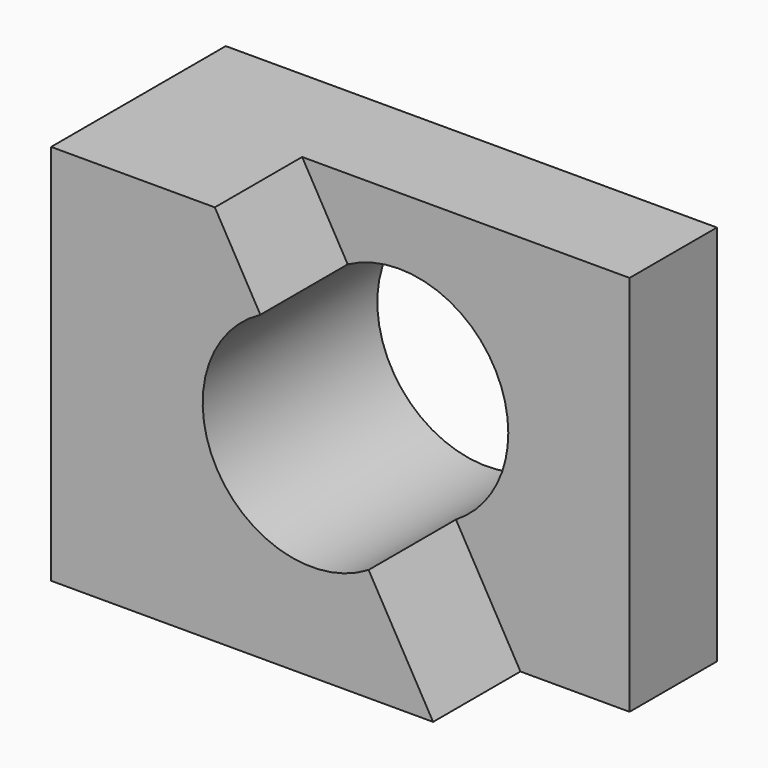
from build123d import *

# Parameters (mm, degrees)
F0_W     = 57.15
F0_H     = 44.45
F1_DEPTH = 25.4
F3_R     = 12.7
F4_DEPTH = 25.401
F5_DEPTH = 12.7


with BuildPart() as f1:
    # F0 (on Front) → F1 (new body)
    with BuildSketch(Plane.XZ):
        with Locations((-28.575, 22.225)):
            Rectangle(F0_W, F0_H)
    extrude(amount=F1_DEPTH)

    # F3 (on face) → F4 (cut, through all)
    with BuildSketch(Plane.XZ.offset(25.4)):
        with Locations((-26.811862, 23.974629)):
            Circle(F3_R)
    extrude(amount=-F4_DEPTH, mode=Mode.SUBTRACT)

    # F2 (on face) → F5 (cut)
    with BuildSketch(Plane.XZ.offset(25.4)):
        Polygon((0, 44.45), (-38.1, 44.45), (-12.7, 0), (0, 0), align=None)
    extrude(amount=-F5_DEPTH, mode=Mode.SUBTRACT)


solid = f1.part
